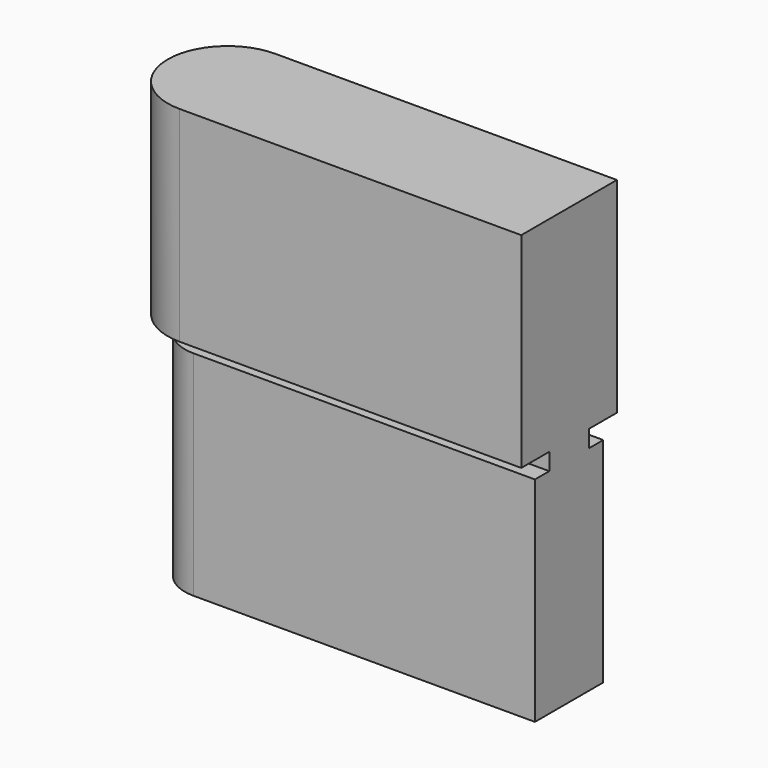
from build123d import *

# Parameters (mm, degrees)
F0_R     = 25
F1_DEPTH = 125
F2_R     = 14.5
F3_DEPTH = 10
F4_R     = 35
F5_DEPTH = 120
F6_W     = 29
F6_H     = 10
F7_DEPTH = 200


with BuildPart() as f1:
    # F0 (on Top) → F1 (new body)
    with BuildSketch(Plane.XY):
        Circle(F0_R)
    extrude(amount=F1_DEPTH)

    # F2 (on face) → F3 (join)
    with BuildSketch(Plane.XY.offset(125)):
        Circle(F2_R)
    extrude(amount=F3_DEPTH)

    # F4 (on face) → F5 (join)
    with BuildSketch(Plane.XY.offset(135)):
        Circle(F4_R)
    extrude(amount=F5_DEPTH)

    # F6 (on Right) → F7 (join)
    with BuildSketch(Plane.YZ):
        Polygon((-35, 255), (-35, 135), (-14.5, 135), (14.5, 135), (35, 135), (35, 255), align=None)
        with Locations((0, 130)):
            Rectangle(F6_W, F6_H)
        Polygon((14.5, 125), (-14.5, 125), (-25, 125), (-25, 0), (25, 0), (25, 125), align=None)
    extrude(amount=F7_DEPTH)


solid = f1.part
